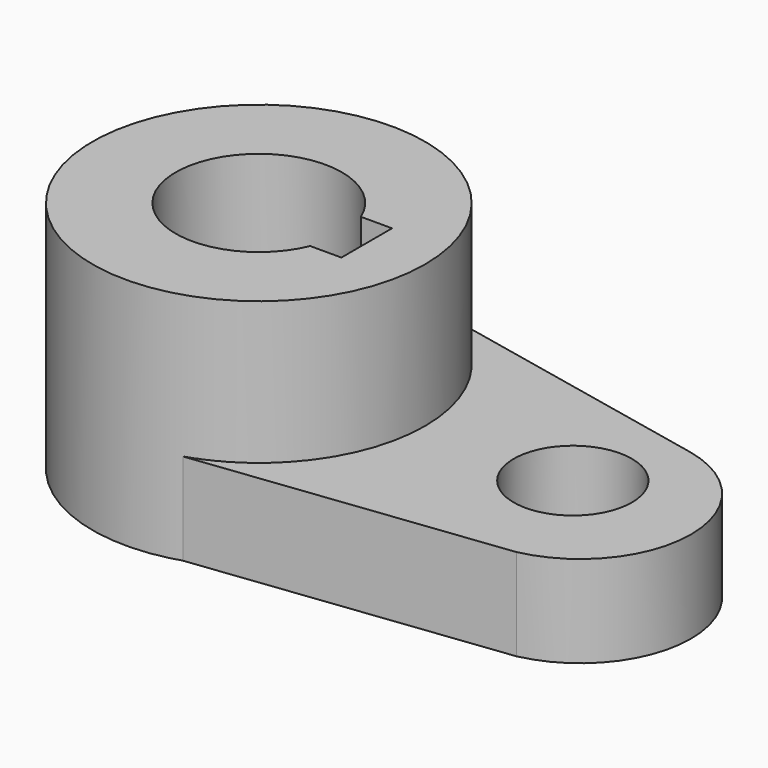
from build123d import *

# Parameters (mm, degrees)
F0_R     = 10.16
F1_DEPTH = 15.7734
F0_R_2   = 25.6389726278
F2_DEPTH = 40.2336


with BuildPart() as f1:
    # F0 (on Top) → F1 (new body)
    with BuildSketch(Plane.XY):
        with BuildLine():
            ThreePointArc((5.8976875516, 27.9597551231), (22.1929836523, 18.0000583779), (28.575, 0))
            ThreePointArc((28.575, 0), (23.0925945185, -16.8304100783), (8.7490890005, -27.2026481553))
            Line((8.7490890005, -27.2026481553), (61.021015048, -20.9473507659))
            ThreePointArc((61.021015048, -20.9473507659), (76.139223347, -2.3075140171), (61.021015048, 16.3323227316))
            Line((61.021015048, 16.3323227316), (5.8976875516, 27.9597551231))
        make_face()
        with Locations((53.975, 0)):
            Circle(F0_R, mode=Mode.SUBTRACT)
    extrude(amount=F1_DEPTH)


with BuildPart() as f2:
    # F0 (on Top) → F2 (new body)
    with BuildSketch(Plane.XY):
        with BuildLine():
            ThreePointArc((8.7490890005, -27.2026481553), (23.0925945185, -16.8304100783), (28.575, 0))
            ThreePointArc((28.575, 0), (22.1929836523, 18.0000583779), (5.8976875516, 27.9597551231))
            ThreePointArc((5.8976875516, 27.9597551231), (-28.5369006675, -1.4751017917), (8.7490890005, -27.2026481553))
        make_face()
        Circle(F0_R_2, mode=Mode.SUBTRACT)
        Circle(F0_R_2)
        with BuildLine():
            ThreePointArc((13.2179902609, -5.4237800207), (-14.2875, 0), (13.2179902609, 5.4237800207))
            Line((13.2179902609, 5.4237800207), (18.5694284737, 5.4237800207))
            Line((18.5694284737, 5.4237800207), (18.5694284737, -5.4684444331))
            Line((18.5694284737, -5.4684444331), (13.2179902609, -5.4684444331))
            Line((13.2179902609, -5.4684444331), (13.2179902609, -5.4237800207))
        make_face(mode=Mode.SUBTRACT)
    extrude(amount=F2_DEPTH)


solid = Compound([f1.part, f2.part])
